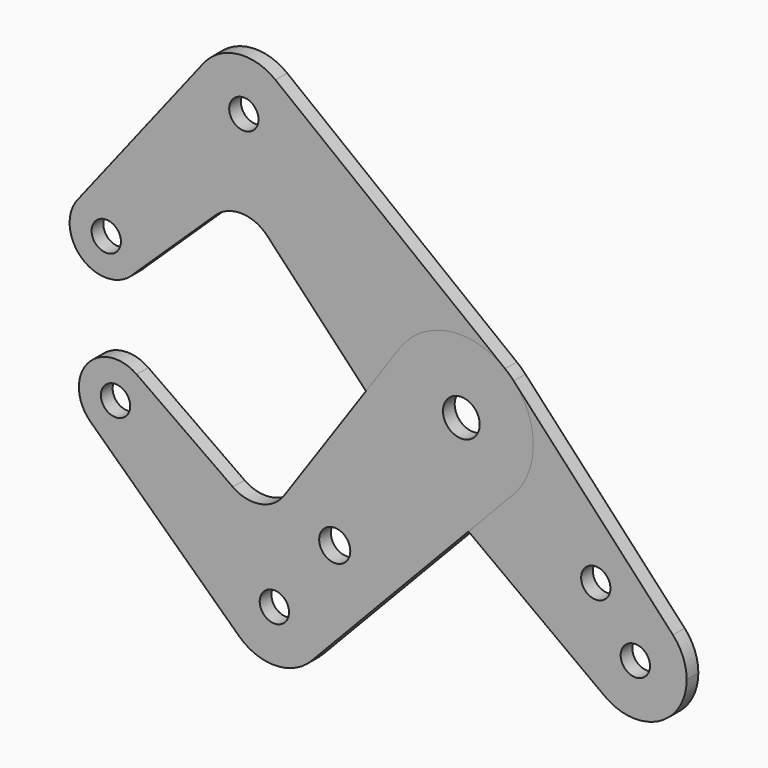
from build123d import *

# Parameters (mm, degrees)
F0_R     = 3.175
F0_R_2   = 3.9751
F1_DEPTH = 3.175
F0_R_3   = 3.3671288516
F2_DEPTH = 3.175


with BuildPart() as f1:
    # F0 (on Front) → F1 (new body)
    with BuildSketch(Plane.XZ):
        with BuildLine():
            ThreePointArc((31.0825885651, -43.002858055), (42.6912565073, -43.9863076148), (48.7982686301, -34.0649797117))
            ThreePointArc((48.7982686301, -34.0649797117), (48.0314533665, -30.0085695272), (45.8368353639, -26.5119824689))
            ThreePointArc((45.8368353639, -26.5119824689), (29.404088083, -26.655430227), (31.0825885651, -43.002858055))
        make_face()
        with Locations((37.6857686301, -34.0649797117)):
            Circle(F0_R, mode=Mode.SUBTRACT)
        with BuildLine():
            ThreePointArc((-35.9947107876, 42.5812246396), (-37.1179082007, 47.4496422549), (-40.2604457845, 51.3339079563))
            ThreePointArc((-40.2604457845, 51.3339079563), (-48.4567411463, 53.6114750475), (-55.862181086, 49.4250650326))
            ThreePointArc((-55.862181086, 49.4250650326), (-58.2077082838, 42.0648801936), (-55.1890631006, 34.9542121549))
            ThreePointArc((-55.1890631006, 34.9542121549), (-43.003671314, 32.2541427653), (-35.9947107876, 42.5812246396))
        make_face()
        with Locations((-47.1072107876, 42.5812246396)):
            Circle(F0_R, mode=Mode.SUBTRACT)
        with BuildLine():
            ThreePointArc((-68.9765680354, 9.6061770883), (-74.3288841509, 17.1108909758), (-83.1676182485, 14.4946345119))
            ThreePointArc((-83.1676182485, 14.4946345119), (-81.9631953605, 3.4816183691), (-70.9226276925, 4.399782091))
            ThreePointArc((-70.9226276925, 4.399782091), (-69.4789835042, 6.8270721489), (-68.9765680354, 9.6061770883))
        make_face()
        with Locations((-76.9140680354, 9.6061770883)):
            Circle(F0_R, mode=Mode.SUBTRACT)
        with BuildLine():
            ThreePointArc((31.0825885651, -43.002858055), (29.404088083, -26.655430227), (45.8368353639, -26.5119824689))
            Line((45.8368353639, -26.5119824689), (11.3504961121, 10.7050909141))
            ThreePointArc((11.3504961121, 10.7050909141), (14.4856646871, 5.7099665451), (15.5811150637, -0.0849051471))
            ThreePointArc((15.5811150637, -0.0849051471), (14.446577477, -5.9784942778), (11.205128564, -11.0296899106))
            Line((11.205128564, -11.0296899106), (1.5439354587, -21.1801124495))
            Line((1.5439354587, -21.1801124495), (31.0825885651, -43.002858055))
        make_face()
        with Locations((29.1225633863, -22.0446487124)):
            Circle(F0_R, mode=Mode.SUBTRACT)
        with BuildLine():
            ThreePointArc((-13.3575889812, 8.9348100162), (-2.6873455814, 15.6086276337), (9.4872079254, 12.4189281624))
            Line((9.4872079254, 12.4189281624), (-40.2604457845, 51.3339079563))
            ThreePointArc((-40.2604457845, 51.3339079563), (-37.1179082007, 47.4496422549), (-35.9947107876, 42.5812246396))
            ThreePointArc((-35.9947107876, 42.5812246396), (-43.003671314, 32.2541427653), (-55.1890631006, 34.9542121549))
            ThreePointArc((-55.1890631006, 34.9542121549), (-58.2077082838, 42.0648801936), (-55.862181086, 49.4250650326))
            Line((-55.862181086, 49.4250650326), (-83.1676182485, 14.4946345119))
            ThreePointArc((-83.1676182485, 14.4946345119), (-74.3288841509, 17.1108909758), (-68.9765680354, 9.6061770883))
            ThreePointArc((-68.9765680354, 9.6061770883), (-69.4789835042, 6.8270721489), (-70.9226276925, 4.399782091))
            Line((-70.9226276925, 4.399782091), (-53.2915543506, 21.2776510093))
            ThreePointArc((-53.2915543506, 21.2776510093), (-47.5921325377, 23.4823172204), (-42.0119352332, 20.9912611901))
            Line((-42.0119352332, 20.9912611901), (-20.6569570309, -1.6372293654))
            Line((-20.6569570309, -1.6372293654), (-13.3575889812, 8.9348100162))
        make_face()
        with BuildLine():
            ThreePointArc((15.5811150637, -0.0849051471), (14.4856646871, 5.7099665451), (11.3504961121, 10.7050909141))
            ThreePointArc((11.3504961121, 10.7050909141), (10.453070102, 11.5992115249), (9.4872079254, 12.4189281624))
            ThreePointArc((9.4872079254, 12.4189281624), (-2.6873455814, 15.6086276337), (-13.3575889812, 8.9348100162))
            ThreePointArc((-13.3575889812, 8.9348100162), (-16.1229572945, -1.2915920488), (-11.8393882405, -10.9806372681))
            ThreePointArc((-11.8393882405, -10.9806372681), (-10.8249019337, -11.9640173193), (-9.7269993148, -12.8533027803))
            ThreePointArc((-9.7269993148, -12.8533027803), (1.0839306428, -15.9000007595), (11.205128564, -11.0296899106))
            ThreePointArc((11.205128564, -11.0296899106), (14.446577477, -5.9784942778), (15.5811150637, -0.0849051471))
        make_face()
        Circle(F0_R_2, mode=Mode.SUBTRACT)
        with BuildLine():
            ThreePointArc((-11.8393882405, -10.9806372681), (-16.1229572945, -1.2915920488), (-13.3575889812, 8.9348100162))
            Line((-13.3575889812, 8.9348100162), (-20.6569570309, -1.6372293654))
            Line((-20.6569570309, -1.6372293654), (-11.8393882405, -10.9806372681))
        make_face()
        with BuildLine():
            Line((-9.7269993148, -12.8533027803), (1.5439354587, -21.1801124495))
            Line((1.5439354587, -21.1801124495), (11.205128564, -11.0296899106))
            ThreePointArc((11.205128564, -11.0296899106), (1.0839306428, -15.9000007595), (-9.7269993148, -12.8533027803))
        make_face()
    extrude(amount=F1_DEPTH)


with BuildPart() as f2:
    # F0 (on Front) → F2 (new body)
    with BuildSketch(Plane.XZ):
        with BuildLine():
            Line((-32.4507080231, -56.8961975784), (1.5439354587, -21.1801124495))
            Line((1.5439354587, -21.1801124495), (-9.7269993148, -12.8533027803))
            ThreePointArc((-9.7269993148, -12.8533027803), (-10.8249019337, -11.9640173193), (-11.8393882405, -10.9806372681))
            Line((-11.8393882405, -10.9806372681), (-20.6569570309, -1.6372293654))
            Line((-20.6569570309, -1.6372293654), (-38.3810651071, -27.3079404885))
            ThreePointArc((-38.3810651071, -27.3079404885), (-43.5299147943, -30.6179973844), (-49.5047771992, -29.288279746))
            Line((-49.5047771992, -29.288279746), (-70.3308870796, -14.6035221102))
            ThreePointArc((-70.3308870796, -14.6035221102), (-67.8583206293, -17.4369912891), (-66.967477641, -21.090555468))
            ThreePointArc((-66.967477641, -21.090555468), (-71.7640783412, -28.3801821963), (-80.3567457578, -26.8596221734))
            Line((-80.3567457578, -26.8596221734), (-48.1324928367, -57.3115416315))
            ThreePointArc((-48.1324928367, -57.3115416315), (-44.897276493, -39.0293708242), (-29.3875174733, -49.2348482439))
            ThreePointArc((-29.3875174733, -49.2348482439), (-30.1816937839, -53.3603606354), (-32.4507080231, -56.8961975784))
        make_face()
        with Locations((-27.4249831722, -33.2512867488)):
            Circle(F0_R_3, mode=Mode.SUBTRACT)
        with BuildLine():
            ThreePointArc((-48.1324928367, -57.3115416315), (-40.2057975987, -60.3434526079), (-32.4507080231, -56.8961975784))
            ThreePointArc((-32.4507080231, -56.8961975784), (-30.1816937839, -53.3603606354), (-29.3875174733, -49.2348482439))
            ThreePointArc((-29.3875174733, -49.2348482439), (-44.897276493, -39.0293708242), (-48.1324928367, -57.3115416315))
        make_face()
        with Locations((-40.5000174733, -49.2348482439)):
            Circle(F0_R, mode=Mode.SUBTRACT)
        with BuildLine():
            ThreePointArc((-70.3308870796, -14.6035221102), (-81.0487205281, -16.0647889009), (-80.3567457578, -26.8596221734))
            ThreePointArc((-80.3567457578, -26.8596221734), (-71.7640783412, -28.3801821963), (-66.967477641, -21.090555468))
            ThreePointArc((-66.967477641, -21.090555468), (-67.8583206293, -17.4369912891), (-70.3308870796, -14.6035221102))
        make_face()
        with Locations((-74.904977641, -21.090555468)):
            Circle(F0_R, mode=Mode.SUBTRACT)
        with BuildLine():
            ThreePointArc((15.5811150637, -0.0849051471), (14.4856646871, 5.7099665451), (11.3504961121, 10.7050909141))
            ThreePointArc((11.3504961121, 10.7050909141), (10.453070102, 11.5992115249), (9.4872079254, 12.4189281624))
            ThreePointArc((9.4872079254, 12.4189281624), (-2.6873455814, 15.6086276337), (-13.3575889812, 8.9348100162))
            ThreePointArc((-13.3575889812, 8.9348100162), (-16.1229572945, -1.2915920488), (-11.8393882405, -10.9806372681))
            ThreePointArc((-11.8393882405, -10.9806372681), (-10.8249019337, -11.9640173193), (-9.7269993148, -12.8533027803))
            ThreePointArc((-9.7269993148, -12.8533027803), (1.0839306428, -15.9000007595), (11.205128564, -11.0296899106))
            ThreePointArc((11.205128564, -11.0296899106), (14.446577477, -5.9784942778), (15.5811150637, -0.0849051471))
        make_face()
        Circle(F0_R_2, mode=Mode.SUBTRACT)
        with BuildLine():
            ThreePointArc((-11.8393882405, -10.9806372681), (-16.1229572945, -1.2915920488), (-13.3575889812, 8.9348100162))
            Line((-13.3575889812, 8.9348100162), (-20.6569570309, -1.6372293654))
            Line((-20.6569570309, -1.6372293654), (-11.8393882405, -10.9806372681))
        make_face()
        with BuildLine():
            Line((-9.7269993148, -12.8533027803), (1.5439354587, -21.1801124495))
            Line((1.5439354587, -21.1801124495), (11.205128564, -11.0296899106))
            ThreePointArc((11.205128564, -11.0296899106), (1.0839306428, -15.9000007595), (-9.7269993148, -12.8533027803))
        make_face()
    extrude(amount=F2_DEPTH)


solid = Compound([f1.part, f2.part])
